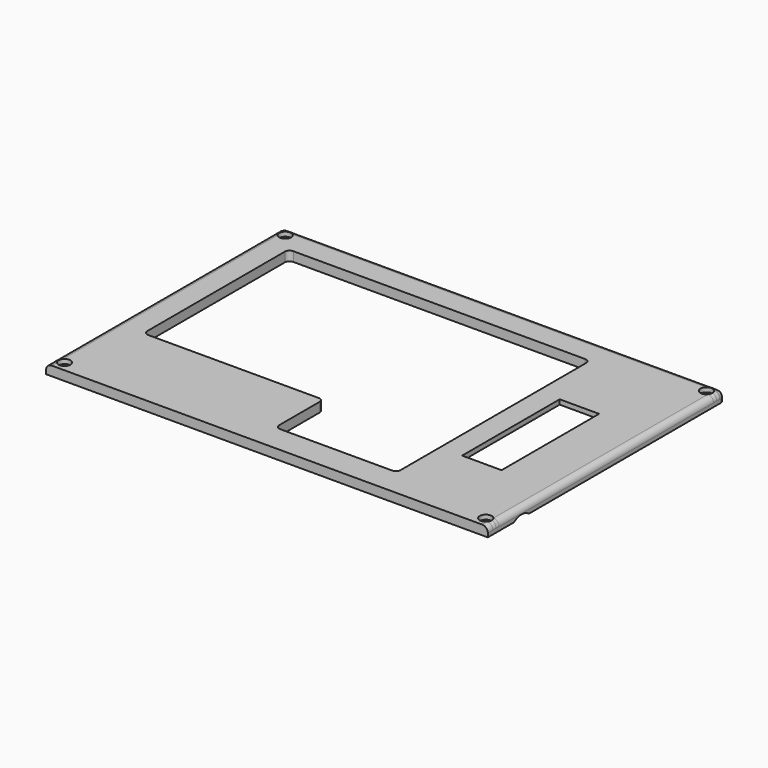
from build123d import *

# Parameters (mm, degrees)
SKETCH038_W        = 140
SKETCH038_H        = 93.9
PAD004_DEPTH       = 3
SKETCH039_W        = 12.5
SKETCH039_H        = 38.6472
POCKET028_DEPTH    = 3
SKETCH040_W        = 24
SKETCH040_H        = 60
POCKET029_DEPTH    = 1.5
SKETCH041_R        = 1.05
POCKET030_DEPTH    = 3.001
SKETCH042_R        = 1.9
POCKET031_DEPTH    = 1.4
CHAMFER001_1_ANGLE = 45
CHAMFER001_1_SIZE  = 0.843
CHAMFER001_2_ANGLE = 45
CHAMFER001_2_SIZE  = 0.843
CHAMFER001_3_ANGLE = 45
CHAMFER001_3_SIZE  = 0.843
CHAMFER001_4_ANGLE = 45
CHAMFER001_4_SIZE  = 0.843
FILLET004_R        = 1.5
SKETCH043_R        = 4.85
POCKET032_DEPTH    = 10
FILLET005_R        = 1.8
POCKET033_DEPTH    = 12


with BuildPart() as part:
    # Sketch038 (on XY_Plane154 of Origin468) → Pad004 (new body)
    with BuildSketch(Plane.XY):
        Rectangle(SKETCH038_W, SKETCH038_H)
    extrude(amount=PAD004_DEPTH)

    # Sketch039 (on Face6 of Pad004) → Pocket028 (cut)
    with BuildSketch(Plane.XY.offset(3)):
        Polygon((-61.3, 38.25), (-61.3, -19.25), (-4.3, -19.25), (-4.3, -38.25), (34.2, -38.25), (34.2, 38.25), align=None)
        with Locations((47.48708, -1.86296)):
            Rectangle(SKETCH039_W, SKETCH039_H)
    extrude(amount=-POCKET028_DEPTH, mode=Mode.SUBTRACT)

    # Sketch040 (on Face4 of Pocket028) → Pocket029 (cut)
    with BuildSketch(Plane(origin=(0, 0, 0), x_dir=(1, 0, 0), z_dir=(0, 0, -1))):
        with Locations((48, -11.55)):
            Rectangle(SKETCH040_W, SKETCH040_H)
    extrude(amount=-POCKET029_DEPTH, mode=Mode.SUBTRACT)

    # Sketch041 (on Face5 of Pocket029) → Pocket030 (cut, through all)
    with BuildSketch(Plane.XY.offset(3)):
        with Locations((66.75, 43.7)):
            Circle(SKETCH041_R)
        with Locations((66.75, -43.7)):
            Circle(SKETCH041_R)
        with Locations((-66.75, -43.7)):
            Circle(SKETCH041_R)
        with Locations((-66.75, 43.7)):
            Circle(SKETCH041_R)
    extrude(amount=-POCKET030_DEPTH, mode=Mode.SUBTRACT)

    # Sketch042 (on Face5 of Pocket030) → Pocket031 (cut)
    with BuildSketch(Plane.XY.offset(3)):
        with Locations((-66.75, 43.7)):
            Circle(SKETCH042_R)
        with Locations((66.75, 43.7)):
            Circle(SKETCH042_R)
        with Locations((-66.75, -43.7)):
            Circle(SKETCH042_R)
        with Locations((66.75, -43.7)):
            Circle(SKETCH042_R)
    extrude(amount=-POCKET031_DEPTH, mode=Mode.SUBTRACT)

    # Chamfer001 1
    chamfer001_1_edges = [part.edges().sort_by_distance(p)[0] for p in [
        (-67.8, 43.7, 1.6),
    ]]
    chamfer001_1_side = part.faces().sort_by_distance((-67.8, 43.7, 0.8))[0]
    chamfer(chamfer001_1_edges, length=CHAMFER001_1_SIZE, angle=CHAMFER001_1_ANGLE, reference=chamfer001_1_side)

    # Chamfer001 2
    chamfer001_2_edges = [part.edges().sort_by_distance(p)[0] for p in [
        (65.7, -43.7, 1.6),
    ]]
    chamfer001_2_side = part.faces().sort_by_distance((65.7, -43.7, 0.8))[0]
    chamfer(chamfer001_2_edges, length=CHAMFER001_2_SIZE, angle=CHAMFER001_2_ANGLE, reference=chamfer001_2_side)

    # Chamfer001 3
    chamfer001_3_edges = [part.edges().sort_by_distance(p)[0] for p in [
        (-67.8, -43.7, 1.6),
    ]]
    chamfer001_3_side = part.faces().sort_by_distance((-67.8, -43.7, 0.8))[0]
    chamfer(chamfer001_3_edges, length=CHAMFER001_3_SIZE, angle=CHAMFER001_3_ANGLE, reference=chamfer001_3_side)

    # Chamfer001 4
    chamfer001_4_edges = [part.edges().sort_by_distance(p)[0] for p in [
        (65.7, 43.7, 1.6),
    ]]
    chamfer001_4_side = part.faces().sort_by_distance((65.7, 43.7, 0.8))[0]
    chamfer(chamfer001_4_edges, length=CHAMFER001_4_SIZE, angle=CHAMFER001_4_ANGLE, reference=chamfer001_4_side)

    # Fillet004
    fillet004_edges = [part.edges().sort_by_distance(p)[0] for p in [
        (-4.3, -38.25, 1.5),
        (34.2, -38.25, 1.5),
        (34.2, 38.25, 1.5),
        (-61.3, 38.25, 1.5),
        (-61.3, -19.25, 1.5),
        (-4.3, -19.25, 1.5),
    ]]
    fillet(fillet004_edges, radius=FILLET004_R)

    # Sketch043 (on Face16 of Fillet004) → Pocket032 (cut)
    with BuildSketch(Plane.YZ.offset(70)):
        with Locations((-33.64, -3.85)):
            Circle(SKETCH043_R)
    extrude(amount=-POCKET032_DEPTH, mode=Mode.SUBTRACT)

    # Fillet005
    fillet005_edges = [part.edges().sort_by_distance(p)[0] for p in [
        (70, 0, 3),
        (0, 46.95, 3),
        (70, 46.95, 1.5),
        (-70, 46.95, 1.5),
        (-70, 0, 3),
    ]]
    fillet(fillet005_edges, radius=FILLET005_R)

    # Sketch044 (on Face5 of Fillet005) → Pocket033 (cut)
    with BuildSketch(Plane(origin=(0, 46.95, 0), x_dir=(-1, 0, 0), z_dir=(0, 1, 0))):
        with BuildLine():
            Line((-40.5, -3.1), (-40.5, -0.1))
            ThreePointArc((-40.5, -0.1), (-41.232233, 1.667767), (-43, 2.4))
            Line((-43, 2.4), (-52, 2.4))
            ThreePointArc((-52, 2.4), (-53.767767, 1.667767), (-54.5, -0.1))
            Line((-54.5, -0.1), (-54.5, -3.1))
            ThreePointArc((-54.5, -3.1), (-53.767767, -4.867767), (-52, -5.6))
            Line((-52, -5.6), (-43, -5.6))
            ThreePointArc((-43, -5.6), (-41.232233, -4.867767), (-40.5, -3.1))
        make_face()
    extrude(amount=-POCKET033_DEPTH, mode=Mode.SUBTRACT)


with BuildPart() as part_1:
    # Body003 placement: moved
    add(part.part.moved(Location((-100, 0, 10.5))))


solid = part_1.part
